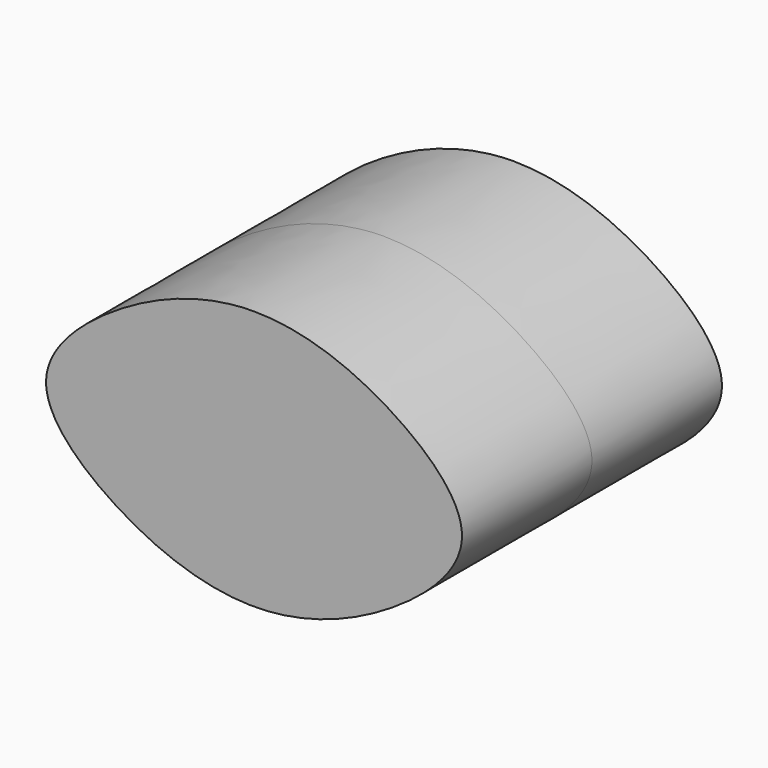
from build123d import *

# Parameters (mm, degrees)
F1_DEPTH = 1250


with BuildPart() as f1:
    # F0 (on Front) → F1 (new body, symmetric)
    with BuildSketch(Plane.XZ):
        with BuildLine():
            add(Edge.make_bspline(
                [(0, 1000), (366.9987625798, 1000), (1055.6849831583, 755.3136427442), (1854.2512233964, 0), (1055.6849831583, -755.3136427442), (0, -1130.3926050061), (-1055.6849831583, -755.3136427442), (-1854.2512233964, 0), (-1055.6849831583, 755.3136427442), (-366.9987625798, 1000), (0, 1000)],
                knots=[0, 0, 0, 0, 0.1332242288, 0.25, 0.3667757712, 0.5, 0.6332242288, 0.75, 0.8667757712, 1, 1, 1, 1], degree=3))
        make_face()
    extrude(amount=F1_DEPTH, both=True)


solid = f1.part
